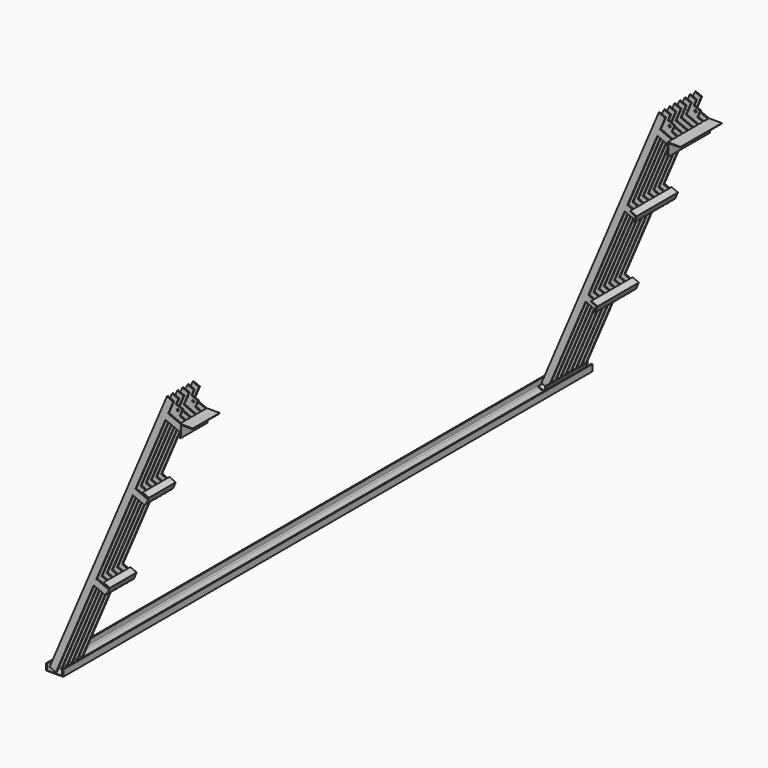
from build123d import *

# Parameters (mm, degrees)
F1_DEPTH      = 7151
F1_DEPTH_BACK = 540
F3_DEPTH      = 540
F3_DEPTH_BACK = 60
F5_DEPTH      = 540
F5_DEPTH_BACK = 60
F6_DEPTH      = 15
F8_R          = 12.8871672419
F9_DEPTH      = 15
F17_DEPTH     = 15
F18_DEPTH     = 390
F20_R         = 12.8871672419
F21_DEPTH     = 15


with BuildPart() as f1:
    # F0 (on Front) → F1 (new body, two sides)
    with BuildSketch(Plane.XZ) as f1_sk:
        with BuildLine():
            Line((-200, 0), (0, 0))
            Line((0, 0), (0, 75))
            Line((0, 75), (-12.5, 75))
            Line((-12.5, 75), (-12.5, 18))
            ThreePointArc((-12.5, 18), (-16.0147186258, 9.5147186258), (-24.5, 6))
            Line((-24.5, 6), (-175.5, 6))
            ThreePointArc((-175.5, 6), (-183.9852813742, 9.5147186258), (-187.5, 18))
            Line((-187.5, 18), (-187.5, 75))
            Line((-187.5, 75), (-200, 75))
            Line((-200, 75), (-200, 0))
        make_face()
    extrude(amount=F1_DEPTH)
    extrude(f1_sk.sketch, amount=-F1_DEPTH_BACK)


with BuildPart() as f3:
    # F2 (on Front) → F3 (new body, two sides)
    with BuildSketch(Plane.XZ) as f3_sk:
        with BuildLine():
            Line((-153.6403882762, 37.2584902791), (-80, 6))
            Line((-80, 6), (-48.7415097209, 79.6403882762))
            Line((-48.7415097209, 79.6403882762), (-53.3440339881, 81.5940439186))
            ThreePointArc((-53.3440339881, 81.5940439186), (-57.1707225976, 81.6274389242), (-59.9002138978, 78.9451752938))
            Line((-59.9002138978, 78.9451752938), (-81.3904259647, 28.3174083539))
            ThreePointArc((-81.3904259647, 28.3174083539), (-86.8494085651, 22.9528810932), (-94.5027857842, 23.0196711043))
            Line((-94.5027857842, 23.0196711043), (-145.130552724, 44.5098831712))
            ThreePointArc((-145.130552724, 44.5098831712), (-148.9572413336, 44.5432781768), (-151.6867326337, 41.8610145464))
            Line((-151.6867326337, 41.8610145464), (-153.6403882762, 37.2584902791))
        make_face()
    extrude(amount=-F3_DEPTH)
    extrude(f3_sk.sketch, amount=F3_DEPTH_BACK)


with BuildPart() as f5:
    # F4 (on Front) → F5 (new body, two sides)
    with BuildSketch(Plane.XZ) as f5_sk:
        with BuildLine():
            Line((510.5423748084, 1013.3349510245), (541.8008650876, 1086.9753393007))
            Line((541.8008650876, 1086.9753393007), (468.1604768114, 1118.2338295799))
            Line((468.1604768114, 1118.2338295799), (466.2068211689, 1113.6313053126))
            ThreePointArc((466.2068211689, 1113.6313053126), (466.1734261634, 1109.8046167031), (468.8556897938, 1107.0751254029))
            Line((468.8556897938, 1107.0751254029), (519.4834567336, 1085.584913336))
            ThreePointArc((519.4834567336, 1085.584913336), (524.8479839944, 1080.1259307356), (524.7811939833, 1072.4725535166))
            Line((524.7811939833, 1072.4725535166), (522.8275383408, 1067.8700292493))
            Line((522.8275383408, 1067.8700292493), (503.2909819164, 1021.8447865767))
            ThreePointArc((503.2909819164, 1021.8447865767), (503.2575869108, 1018.0180979672), (505.9398505412, 1015.288606667))
            Line((505.9398505412, 1015.288606667), (510.5423748084, 1013.3349510245))
        make_face()
    extrude(amount=-F5_DEPTH)
    extrude(f5_sk.sketch, amount=F5_DEPTH_BACK)


with BuildPart() as f5b:
    # F4 (on Front) → F5, piece 2 (new body, two sides)
    with BuildSketch(Plane.XZ) as f5_2_sk:
        with BuildLine():
            Line((1357.4292287939, 3034.0683962237), (1357.4292287939, 2947.1595660313))
            Line((1357.4292287939, 2947.1595660313), (1357.4292287939, 2884.0683962237))
            Line((1357.4292287939, 2884.0683962237), (1359.4292287939, 2884.0683962237))
            ThreePointArc((1359.4292287939, 2884.0683962237), (1365.0860830434, 2886.4115419742), (1367.4292287939, 2892.0683962237))
            Line((1367.4292287939, 2892.0683962237), (1367.4292287939, 3008.0683962237))
            ThreePointArc((1367.4292287939, 3008.0683962237), (1372.1155202949, 3019.3821047227), (1383.4292287939, 3024.0683962237))
            Line((1383.4292287939, 3024.0683962237), (1499.4716573167, 3024.0683962237))
            ThreePointArc((1499.4716573167, 3024.0683962237), (1505.1909421225, 3026.4746692631), (1507.4696867201, 3032.2459508962))
            Line((1507.4696867201, 3032.2459508962), (1507.4292287939, 3034.0683962237))
            Line((1507.4292287939, 3034.0683962237), (1357.4292287939, 3034.0683962237))
        make_face()
    extrude(amount=-F5_DEPTH)
    extrude(f5_2_sk.sketch, amount=F5_DEPTH_BACK)


with BuildPart() as f5c:
    # F4 (on Front) → F5, piece 3 (new body, two sides)
    with BuildSketch(Plane.XZ) as f5_3_sk:
        with BuildLine():
            Line((977.2478407739, 2138.4171738145), (957.7112843494, 2092.3919311419))
            ThreePointArc((957.7112843494, 2092.3919311419), (957.6778893438, 2088.5652425324), (960.3601529742, 2085.8357512322))
            Line((960.3601529742, 2085.8357512322), (964.9626772415, 2083.8820955897))
            Line((964.9626772415, 2083.8820955897), (996.2211675206, 2157.5224838659))
            Line((996.2211675206, 2157.5224838659), (922.5807792444, 2188.7809741451))
            Line((922.5807792444, 2188.7809741451), (920.627123602, 2184.1784498778))
            ThreePointArc((920.627123602, 2184.1784498778), (920.5937285964, 2180.3517612683), (923.2759922268, 2177.6222699681))
            Line((923.2759922268, 2177.6222699681), (973.9037591667, 2156.1320579012))
            ThreePointArc((973.9037591667, 2156.1320579012), (979.2682864274, 2150.6730753008), (979.2014964163, 2143.0196980818))
            Line((979.2014964163, 2143.0196980818), (977.2478407739, 2138.4171738145))
        make_face()
        with BuildLine():
            Line((977.2478407739, 2138.4171738145), (957.7112843494, 2092.3919311419))
            ThreePointArc((957.7112843494, 2092.3919311419), (957.6778893438, 2088.5652425324), (960.3601529742, 2085.8357512322))
            Line((960.3601529742, 2085.8357512322), (964.9626772415, 2083.8820955897))
            Line((964.9626772415, 2083.8820955897), (996.2211675206, 2157.5224838659))
            Line((996.2211675206, 2157.5224838659), (922.5807792444, 2188.7809741451))
            Line((922.5807792444, 2188.7809741451), (920.627123602, 2184.1784498778))
            ThreePointArc((920.627123602, 2184.1784498778), (920.5937285964, 2180.3517612683), (923.2759922268, 2177.6222699681))
            Line((923.2759922268, 2177.6222699681), (973.9037591667, 2156.1320579012))
            ThreePointArc((973.9037591667, 2156.1320579012), (979.2682864274, 2150.6730753008), (979.2014964163, 2143.0196980818))
            Line((979.2014964163, 2143.0196980818), (977.2478407739, 2138.4171738145))
        make_face()
    extrude(amount=-F5_DEPTH)
    extrude(f5_3_sk.sketch, amount=F5_DEPTH_BACK)


with BuildPart() as f6:
    # F4 (on Front) → F6 (new body)
    with BuildSketch(Plane.XZ):
        Polygon((1204.3227817732, 3262.0122837941), (1130.0838673603, 3087.1163616382), (1203.7242556365, 3055.857871359), (1219.3535007761, 3092.6780654971), (1277.9631700494, 3230.753793515), align=None)
        Polygon((491.5690480617, 994.2296409731), (503.2909819164, 1021.8447865767), (522.8275383408, 1067.8700292493), (384.751810323, 1126.4796985227), (807.9136224768, 2123.3864548117), (945.9893504947, 2064.7767855383), (957.7112843494, 2092.3919311419), (977.2478407739, 2138.4171738145), (839.172112756, 2197.0268430879), (848.9403909682, 2220.0394644242), (1188.0950104969, 3019.0376772209), (1203.7242556365, 3055.857871359), (1130.0838673603, 3087.1163616382), (-158.9381255258, 50.3708500986), (-85.2977372496, 19.1123598194), (353.4933200438, 1052.8393102465), align=None)
        Polygon((1219.3535007761, 3092.6780654971), (1203.7242556365, 3055.857871359), (1188.0950104969, 3019.0376772209), (1357.4292287939, 2947.1595660313), (1357.4292287939, 3034.0683962237), align=None)
    extrude(amount=-F6_DEPTH)


with BuildPart() as f9:
    # F8 (on offset) → F9 (new body)
    with BuildSketch(Plane.XZ.offset(-90)):
        Polygon((491.5690480617, 994.2296409731), (503.2909819164, 1021.8447865767), (522.8275383408, 1067.8700292493), (384.751810323, 1126.4796985227), (807.9136224768, 2123.3864548117), (945.9893504947, 2064.7767855383), (957.7112843494, 2092.3919311419), (977.2478407739, 2138.4171738145), (839.172112756, 2197.0268430879), (848.9403909682, 2220.0394644242), (1188.0950104969, 3019.0376772209), (1203.7242556365, 3055.857871359), (1130.0838673603, 3087.1163616382), (-158.9381255258, 50.3708500986), (-85.2977372496, 19.1123598194), (353.4933200438, 1052.8393102465), align=None)
        Polygon((1219.3535007761, 3092.6780654971), (1203.7242556365, 3055.857871359), (1188.0950104969, 3019.0376772209), (1357.4292287939, 2947.1595660313), (1357.4292287939, 3034.0683962237), (1292.9938890522, 3061.419575218), align=None)
        Polygon((1250.6119910552, 3166.3184537733), (1219.3535007761, 3092.6780654971), (1292.9938890522, 3061.419575218), (1324.2523793314, 3135.0599634942), align=None)
        with Locations((1271.8029400537, 3113.8690144956)):
            Circle(F8_R, mode=Mode.SUBTRACT)
        Polygon((1204.3227817732, 3262.0122837941), (1130.0838673603, 3087.1163616382), (1203.7242556365, 3055.857871359), (1219.3535007761, 3092.6780654971), (1250.6119910552, 3166.3184537733), (1277.9631700494, 3230.753793515), align=None)
    extrude(amount=F9_DEPTH)


with BuildPart() as f10_1:
    # F10: copy of F6
    add(f6.part.moved(Location((0, 150, 0))))


with BuildPart() as f11_1:
    # F11: copy of F10_1
    add(f10_1.part.moved(Location((0, 75, 0))))


with BuildPart() as f12_1:
    # F12: copy of F11_1
    add(f11_1.part.moved(Location((0, 75, 0))))


with BuildPart() as f13_1:
    # F13: copy of F12_1
    add(f12_1.part.moved(Location((0, 75, 0))))


with BuildPart() as f14_1:
    # F14: copy of F9
    add(f9.part.moved(Location((0, 375, 0))))


with BuildPart() as f15_1:
    # F15: copy of F13_1
    add(f13_1.part.moved(Location((0, 150, 0))))


with BuildPart() as f17:
    # F16 (on face) → F17 (new body)
    with BuildSketch(Plane.XZ.offset(7151)):
        Polygon((491.5690480617, 994.2296409731), (503.2909819164, 1021.8447865767), (522.8275383408, 1067.8700292493), (384.751810323, 1126.4796985227), (807.9136224768, 2123.3864548117), (945.9893504947, 2064.7767855383), (957.7112843494, 2092.3919311419), (977.2478407739, 2138.4171738145), (839.172112756, 2197.0268430879), (848.9403909682, 2220.0394644242), (1188.0950104969, 3019.0376772209), (1203.7242556365, 3055.857871359), (1130.0838673603, 3087.1163616382), (-158.9381255258, 50.3708500986), (-85.2977372496, 19.1123598194), (353.4933200438, 1052.8393102465), align=None)
        Polygon((1204.3227817732, 3262.0122837941), (1130.0838673603, 3087.1163616382), (1203.7242556365, 3055.857871359), (1219.3535007761, 3092.6780654971), (1277.9631700494, 3230.753793515), align=None)
        Polygon((1219.3535007761, 3092.6780654971), (1203.7242556365, 3055.857871359), (1188.0950104969, 3019.0376772209), (1357.4292287939, 2947.1595660313), (1357.4292287939, 3034.0683962237), align=None)
    extrude(amount=-F17_DEPTH)


with BuildPart() as f18:
    # F16 (on face) → F18 (new body)
    with BuildSketch(Plane.XZ.offset(7151)):
        with BuildLine():
            Line((510.5423748084, 1013.3349510245), (541.8008650876, 1086.9753393007))
            Line((541.8008650876, 1086.9753393007), (468.1604768114, 1118.2338295799))
            Line((468.1604768114, 1118.2338295799), (466.2068211689, 1113.6313053126))
            ThreePointArc((466.2068211689, 1113.6313053126), (466.1734261634, 1109.8046167031), (468.8556897938, 1107.0751254029))
            Line((468.8556897938, 1107.0751254029), (519.4834567336, 1085.584913336))
            ThreePointArc((519.4834567336, 1085.584913336), (524.8479839944, 1080.1259307356), (524.7811939833, 1072.4725535166))
            Line((524.7811939833, 1072.4725535166), (522.8275383408, 1067.8700292493))
            Line((522.8275383408, 1067.8700292493), (503.2909819164, 1021.8447865767))
            ThreePointArc((503.2909819164, 1021.8447865767), (503.2575869108, 1018.0180979672), (505.9398505412, 1015.288606667))
            Line((505.9398505412, 1015.288606667), (510.5423748084, 1013.3349510245))
        make_face()
    extrude(amount=-F18_DEPTH)


with BuildPart() as f18b:
    # F16 (on face) → F18, piece 2 (new body)
    with BuildSketch(Plane.XZ.offset(7151)):
        with BuildLine():
            Line((1357.4292287939, 3034.0683962237), (1357.4292287939, 2947.1595660313))
            Line((1357.4292287939, 2947.1595660313), (1357.4292287939, 2884.0683962237))
            Line((1357.4292287939, 2884.0683962237), (1359.4292287939, 2884.0683962237))
            ThreePointArc((1359.4292287939, 2884.0683962237), (1365.0860830434, 2886.4115419742), (1367.4292287939, 2892.0683962237))
            Line((1367.4292287939, 2892.0683962237), (1367.4292287939, 3008.0683962237))
            ThreePointArc((1367.4292287939, 3008.0683962237), (1372.1155202949, 3019.3821047227), (1383.4292287939, 3024.0683962237))
            Line((1383.4292287939, 3024.0683962237), (1499.4716573167, 3024.0683962237))
            ThreePointArc((1499.4716573167, 3024.0683962237), (1505.1909421225, 3026.4746692631), (1507.4696867201, 3032.2459508962))
            Line((1507.4696867201, 3032.2459508962), (1507.4292287939, 3034.0683962237))
            Line((1507.4292287939, 3034.0683962237), (1357.4292287939, 3034.0683962237))
        make_face()
    extrude(amount=-F18_DEPTH)


with BuildPart() as f18c:
    # F16 (on face) → F18, piece 3 (new body)
    with BuildSketch(Plane.XZ.offset(7151)):
        with BuildLine():
            Line((977.2478407739, 2138.4171738145), (957.7112843494, 2092.3919311419))
            ThreePointArc((957.7112843494, 2092.3919311419), (957.6778893438, 2088.5652425324), (960.3601529742, 2085.8357512322))
            Line((960.3601529742, 2085.8357512322), (964.9626772415, 2083.8820955897))
            Line((964.9626772415, 2083.8820955897), (996.2211675206, 2157.5224838659))
            Line((996.2211675206, 2157.5224838659), (922.5807792444, 2188.7809741451))
            Line((922.5807792444, 2188.7809741451), (920.627123602, 2184.1784498778))
            ThreePointArc((920.627123602, 2184.1784498778), (920.5937285964, 2180.3517612683), (923.2759922268, 2177.6222699681))
            Line((923.2759922268, 2177.6222699681), (973.9037591667, 2156.1320579012))
            ThreePointArc((973.9037591667, 2156.1320579012), (979.2682864274, 2150.6730753008), (979.2014964163, 2143.0196980818))
            Line((979.2014964163, 2143.0196980818), (977.2478407739, 2138.4171738145))
        make_face()
    extrude(amount=-F18_DEPTH)


with BuildPart() as f21:
    # F20 (on offset) → F21 (new body)
    with BuildSketch(Plane.XZ.offset(7076)):
        Polygon((1204.3227817732, 3262.0122837941), (1130.0838673603, 3087.1163616382), (1203.7242556365, 3055.857871359), (1219.3535007761, 3092.6780654971), (1250.6119910552, 3166.3184537733), (1277.9631700494, 3230.753793515), align=None)
        Polygon((1250.6119910552, 3166.3184537733), (1219.3535007761, 3092.6780654971), (1292.9938890522, 3061.419575218), (1324.2523793314, 3135.0599634942), align=None)
        with Locations((1271.8029400537, 3113.8690144956)):
            Circle(F20_R, mode=Mode.SUBTRACT)
        Polygon((491.5690480617, 994.2296409731), (503.2909819164, 1021.8447865767), (522.8275383408, 1067.8700292493), (384.751810323, 1126.4796985227), (807.9136224768, 2123.3864548117), (945.9893504947, 2064.7767855383), (957.7112843494, 2092.3919311419), (977.2478407739, 2138.4171738145), (839.172112756, 2197.0268430879), (848.9403909682, 2220.0394644242), (1188.0950104969, 3019.0376772209), (1203.7242556365, 3055.857871359), (1130.0838673603, 3087.1163616382), (-158.9381255258, 50.3708500986), (-85.2977372496, 19.1123598194), (353.4933200438, 1052.8393102465), align=None)
        Polygon((1219.3535007761, 3092.6780654971), (1203.7242556365, 3055.857871359), (1188.0950104969, 3019.0376772209), (1357.4292287939, 2947.1595660313), (1357.4292287939, 3034.0683962237), (1292.9938890522, 3061.419575218), align=None)
    extrude(amount=-F21_DEPTH)


with BuildPart() as f22_1:
    # F22: copy of F17
    add(f17.part.moved(Location((0, 150, 0))))


with BuildPart() as f22_1_1:
    # F23: moved
    add(f22_1.part.moved(Location((0, 75, 0))))


with BuildPart() as f24_1:
    # F24: copy of F17
    add(f17.part.moved(Location((0, 150, 0))))


with BuildPart() as f25_1:
    # F25: copy of F21
    add(f21.part.moved(Location((0, 225, 0))))


with BuildPart() as f26_1:
    # F26: copy of F22_1
    add(f22_1_1.part.moved(Location((0, 150, 0))))


solid = Compound([f1.part, f3.part, f5.part, f5b.part, f5c.part, f6.part, f9.part, f10_1.part, f11_1.part, f12_1.part, f13_1.part, f14_1.part, f15_1.part, f17.part, f18.part, f18b.part, f18c.part, f21.part, f22_1_1.part, f24_1.part, f25_1.part, f26_1.part])
